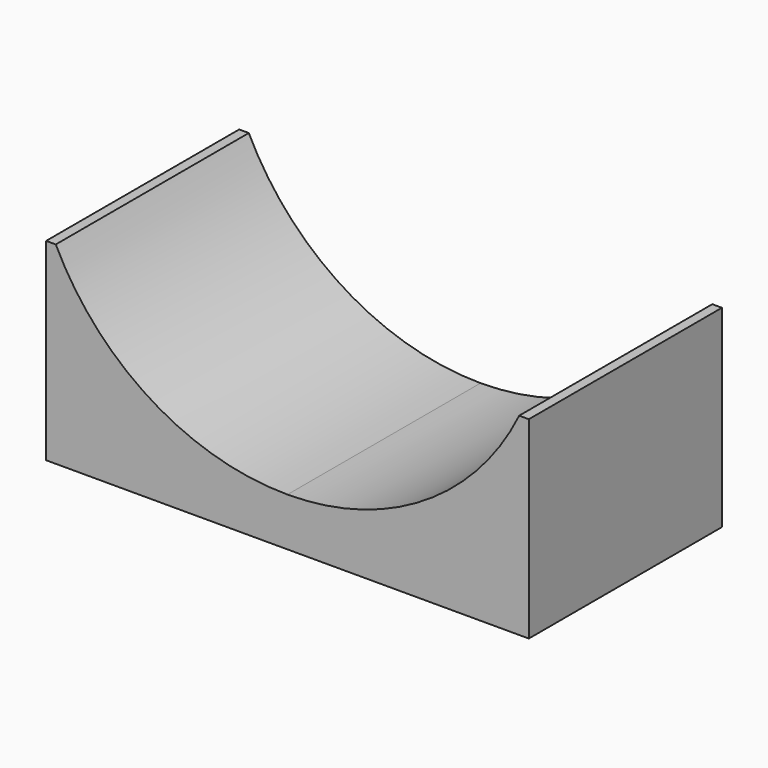
from build123d import *

# Parameters (mm, degrees)
F1_DEPTH = 63.5


with BuildPart() as f1:
    # F0 (on Front) → F1 (new body, symmetric)
    with BuildSketch(Plane.XZ):
        with BuildLine():
            Line((-126.736958, 101.6), (-126.736958, 0))
            Line((-126.736958, 0), (0, 0))
            Line((0, 0), (0.263042, 25.4))
            ThreePointArc((0.263042, 25.4), (-71.623894, 46.016902), (-121.656958, 101.6))
            Line((-121.656958, 101.6), (-126.736958, 101.6))
        make_face()
        with BuildLine():
            Line((0.263042, 25.4), (0, 0))
            Line((0, 0), (127.263042, 0))
            Line((127.263042, 0), (127.263042, 101.6))
            Line((127.263042, 101.6), (122.183042, 101.6))
            ThreePointArc((122.183042, 101.6), (72.149979, 46.016902), (0.263042, 25.4))
        make_face()
    extrude(amount=F1_DEPTH, both=True)


solid = f1.part
